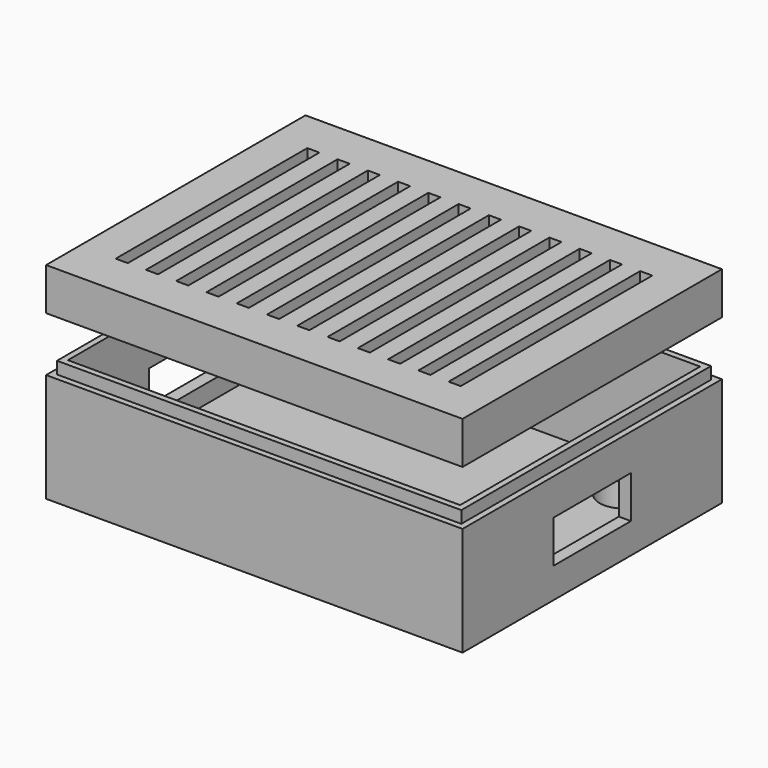
from build123d import *

# Parameters (mm, degrees)
F0_W          = 64.8
F0_H          = 49.56
F0_R          = 4
F1_DEPTH      = 2
F0_R_2        = 2
F2_DEPTH      = 6
F3_DEPTH      = 2
F0_W_2        = 68.8
F0_H_2        = 53.56
F4_DEPTH      = 20
F5_W          = 68.8
F5_H          = 53.56
F5_W_2        = 66.8
F5_H_2        = 51.56
F6_DEPTH      = 2
F7_W          = 16
F7_H          = 7
F8_DEPTH      = 40
F8_DEPTH_BACK = 40
F10_W         = 68.8
F10_H         = 53.56
F10_W_2       = 66.8
F10_H_2       = 51.56
F10_W_3       = 64.8
F10_H_3       = 49.56
F10_W_4       = 2
F10_H_4       = 39.56
F11_DEPTH     = 2
F12_DEPTH     = 5
F13_DEPTH     = 3


with BuildPart() as f1:
    # F0 (on Top) → F1 (new body)
    with BuildSketch(Plane.XY):
        Rectangle(F0_W, F0_H)
        with Locations((-25.4, -17.78)):
            Circle(F0_R, mode=Mode.SUBTRACT)
        with Locations((25.4, -17.78)):
            Circle(F0_R, mode=Mode.SUBTRACT)
        with Locations((-25.4, 17.78)):
            Circle(F0_R, mode=Mode.SUBTRACT)
        with Locations((25.4, 17.78)):
            Circle(F0_R, mode=Mode.SUBTRACT)
    extrude(amount=F1_DEPTH)

    # F0 (on Top) → F2 (join)
    with BuildSketch(Plane.XY):
        with Locations((-25.4, 17.78)):
            Circle(F0_R)
        with Locations((-25.4, 17.78)):
            Circle(F0_R_2, mode=Mode.SUBTRACT)
        with Locations((25.4, 17.78)):
            Circle(F0_R)
        with Locations((25.4, 17.78)):
            Circle(F0_R_2, mode=Mode.SUBTRACT)
        with Locations((25.4, -17.78)):
            Circle(F0_R)
        with Locations((25.4, -17.78)):
            Circle(F0_R_2, mode=Mode.SUBTRACT)
        with Locations((-25.4, -17.78)):
            Circle(F0_R)
        with Locations((-25.4, -17.78)):
            Circle(F0_R_2, mode=Mode.SUBTRACT)
    extrude(amount=F2_DEPTH)

    # F0 (on Top) → F3 (join)
    with BuildSketch(Plane.XY):
        with Locations((-25.4, 17.78)):
            Circle(F0_R_2)
        with Locations((-25.4, -17.78)):
            Circle(F0_R_2)
        with Locations((25.4, -17.78)):
            Circle(F0_R_2)
        with Locations((25.4, 17.78)):
            Circle(F0_R_2)
    extrude(amount=F3_DEPTH)

    # F0 (on Top) → F4 (join)
    with BuildSketch(Plane.XY):
        Rectangle(F0_W_2, F0_H_2)
        Rectangle(F0_W, F0_H, mode=Mode.SUBTRACT)
    extrude(amount=F4_DEPTH)

    # F5 (on face) → F6 (cut)
    with BuildSketch(Plane.XY.offset(20)):
        Rectangle(F5_W, F5_H)
        Rectangle(F5_W_2, F5_H_2, mode=Mode.SUBTRACT)
    extrude(amount=-F6_DEPTH, mode=Mode.SUBTRACT)

    # F7 (on Right) → F8 (cut, two sides)
    with BuildSketch(Plane.YZ) as f8_sk:
        with Locations((0, 8.5)):
            Rectangle(F7_W, F7_H)
    extrude(amount=-F8_DEPTH, mode=Mode.SUBTRACT)
    extrude(f8_sk.sketch, amount=F8_DEPTH_BACK, mode=Mode.SUBTRACT)


with BuildPart() as f11:
    # F10 (on offset) → F11 (new body)
    with BuildSketch(Plane.XY.offset(32)):
        Rectangle(F10_W, F10_H)
        Rectangle(F10_W_2, F10_H_2, mode=Mode.SUBTRACT)
        Rectangle(F10_W_2, F10_H_2)
        Rectangle(F10_W_3, F10_H_3, mode=Mode.SUBTRACT)
        Rectangle(F10_W_3, F10_H_3)
        with Locations((-27.5, 0)):
            Rectangle(F10_W_4, F10_H_4, mode=Mode.SUBTRACT)
        with Locations((-22.5, 0)):
            Rectangle(F10_W_4, F10_H_4, mode=Mode.SUBTRACT)
        with Locations((-17.5, 0)):
            Rectangle(F10_W_4, F10_H_4, mode=Mode.SUBTRACT)
        with Locations((-12.5, 0)):
            Rectangle(F10_W_4, F10_H_4, mode=Mode.SUBTRACT)
        with Locations((-7.5, 0)):
            Rectangle(F10_W_4, F10_H_4, mode=Mode.SUBTRACT)
        with Locations((-2.5, 0)):
            Rectangle(F10_W_4, F10_H_4, mode=Mode.SUBTRACT)
        with Locations((2.5, 0)):
            Rectangle(F10_W_4, F10_H_4, mode=Mode.SUBTRACT)
        with Locations((7.5, 0)):
            Rectangle(F10_W_4, F10_H_4, mode=Mode.SUBTRACT)
        with Locations((12.5, 0)):
            Rectangle(F10_W_4, F10_H_4, mode=Mode.SUBTRACT)
        with Locations((17.5, 0)):
            Rectangle(F10_W_4, F10_H_4, mode=Mode.SUBTRACT)
        with Locations((22.5, 0)):
            Rectangle(F10_W_4, F10_H_4, mode=Mode.SUBTRACT)
        with Locations((27.5, 0)):
            Rectangle(F10_W_4, F10_H_4, mode=Mode.SUBTRACT)
    extrude(amount=F11_DEPTH)

    # F10 (on offset) → F12 (join)
    with BuildSketch(Plane.XY.offset(32)):
        Rectangle(F10_W, F10_H)
        Rectangle(F10_W_2, F10_H_2, mode=Mode.SUBTRACT)
    extrude(amount=-F12_DEPTH)

    # F10 (on offset) → F13 (join)
    with BuildSketch(Plane.XY.offset(32)):
        Rectangle(F10_W_2, F10_H_2)
        Rectangle(F10_W_3, F10_H_3, mode=Mode.SUBTRACT)
    extrude(amount=-F13_DEPTH)


solid = Compound([f1.part, f11.part])
